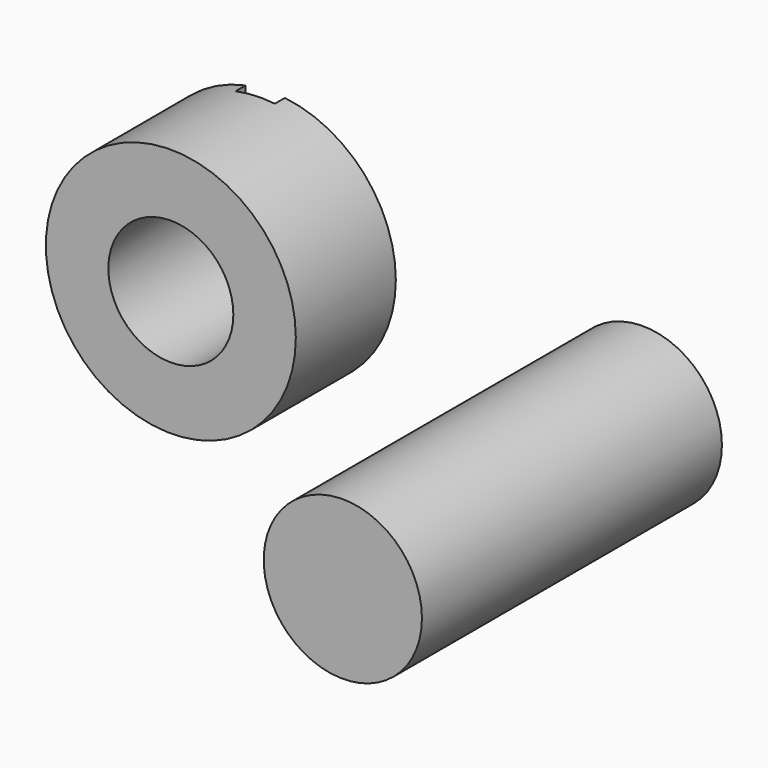
from build123d import *

# Parameters (mm, degrees)
F0_R     = 25.4
F0_R_2   = 12.7
F2_DEPTH = 25.4
F1_R     = 16.0775521087
F3_DEPTH = 76.2
F4_W     = 7.9867392778
F4_H     = 68.60037148
F5_DEPTH = 2.54
F6_DEPTH = 2.54


with BuildPart() as f2:
    # F0 (on Front) → F2 (new body)
    with BuildSketch(Plane.XZ):
        with Locations((-41.0746522248, 38.9353483915)):
            Circle(F0_R)
        with Locations((-41.0746522248, 38.9353483915)):
            Circle(F0_R_2, mode=Mode.SUBTRACT)
    extrude(amount=F2_DEPTH)

    # F4 (on face) → F5 (cut)
    with BuildSketch(Plane(origin=(0, 0, 0), x_dir=(-1, 0, 0), z_dir=(0, 1, 0))):
        with Locations((42.2156155109, 34.30018574)):
            Rectangle(F4_W, F4_H)
    extrude(amount=F5_DEPTH, mode=Mode.SUBTRACT)

    # F4 (on face) → F6 (cut)
    with BuildSketch(Plane(origin=(0, 0, 0), x_dir=(-1, 0, 0), z_dir=(0, 1, 0))):
        with Locations((42.2156155109, 34.30018574)):
            Rectangle(F4_W, F4_H)
    extrude(amount=-F6_DEPTH, mode=Mode.SUBTRACT)


with BuildPart() as f3:
    # F1 (on Front) → F3 (new body)
    with BuildSketch(Plane.XZ):
        with Locations((34.5141217113, 30.9486091137)):
            Circle(F1_R)
    extrude(amount=F3_DEPTH)


solid = Compound([f2.part, f3.part])
